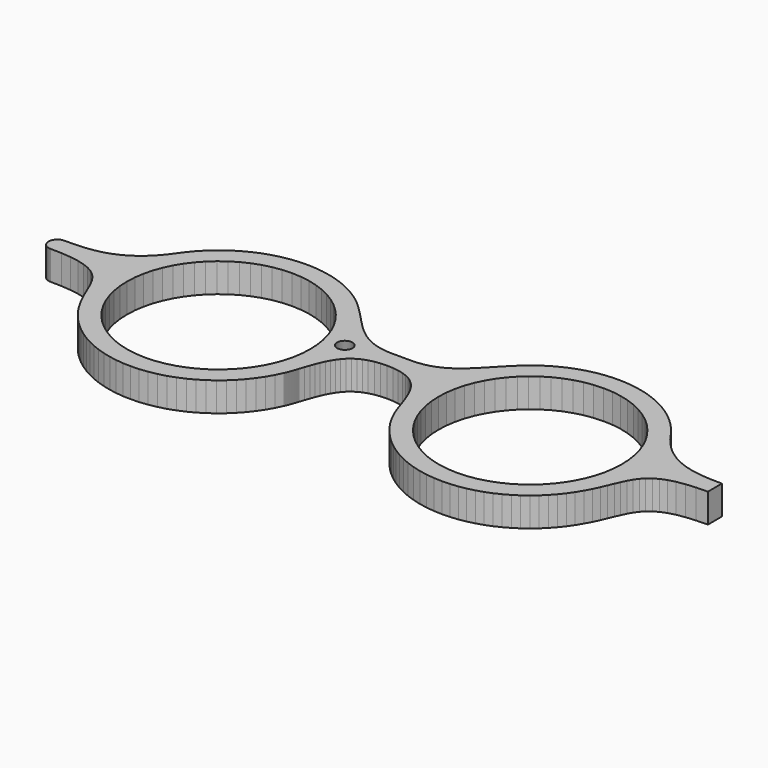
from build123d import *

# Parameters (mm, degrees)
F1_DEPTH = 6


with BuildPart() as f1:
    # F0 (on Top) → F1 (new body)
    with BuildSketch(Plane.XY):
        Polygon((68.823189, 4.836225), (67.674594, 4.84501), (66.532889, 4.877566), (65.399108, 4.943023), (64.274285, 5.05051), (63.158763, 5.209328), (62.053921, 5.428781), (60.960447, 5.717652), (59.878343, 6.085416), (58.808985, 6.541202), (57.753408, 7.094312), (56.7123, 7.753704), (55.686006, 8.528678), (54.67556, 9.428365), (53.681994, 10.461893), (52.705999, 11.638738), (51.747918, 12.967683), (50.945555, 14.049099), (50.082214, 15.080388), (49.160651, 16.058623), (48.183622, 16.981392), (47.153538, 17.845766), (46.073156, 18.649163), (44.944888, 19.388825), (43.771832, 20.062169), (42.556403, 20.666266), (41.301699, 21.198533), (40.010133, 21.656387), (38.684115, 22.03707), (37.326748, 22.337999), (35.940097, 22.556073), (34.527608, 22.688882), (33.091347, 22.73384), (31.913125, 22.703696), (30.750405, 22.614123), (29.604566, 22.466673), (28.477331, 22.262896), (27.369733, 22.004169), (26.283494, 21.692043), (25.219993, 21.327897), (24.180953, 20.913279), (23.16775, 20.449742), (22.181419, 19.938662), (21.224372, 19.38159), (20.296952, 18.780076), (19.401227, 18.135327), (18.538575, 17.449236), (17.710719, 16.722838), (16.918691, 15.958026), (16.068786, 15.11105), (15.256777, 14.274236), (14.473707, 13.453959), (13.710274, 12.656075), (12.95752, 11.886957), (12.20649, 11.152635), (11.448224, 10.458965), (10.673422, 9.812493), (9.873126, 9.219075), (9.038724, 8.684913), (8.160914, 8.216208), (7.230394, 7.818988), (6.238551, 7.499283), (5.176428, 7.263294), (4.034379, 7.117222), (2.804135, 7.067268), (2.566768, 7.067268), (2.329401, 7.067268), (2.092378, 7.067268), (1.855011, 7.067268), (1.617644, 7.067268), (1.380622, 7.067268), (1.143254, 7.067268), (0.905887, 7.067268), (0.66852, 7.067268), (0.431153, 7.067268), (0.194131, 7.067268), (-0.043236, 7.067268), (-0.280603, 7.067268), (-0.517798, 7.067268), (-0.754993, 7.067268), (-0.99236, 7.067268), (-2.222604, 7.117222), (-3.364481, 7.263294), (-4.426776, 7.499283), (-5.418447, 7.818988), (-6.348622, 8.216208), (-7.226605, 8.684913), (-8.061179, 9.219075), (-8.861303, 9.812493), (-9.636105, 10.458965), (-10.39437, 11.152635), (-11.145401, 11.886957), (-11.898154, 12.656075), (-12.661588, 13.453959), (-13.445002, 14.274236), (-14.257011, 15.11105), (-15.106916, 15.958026), (-15.898772, 16.722838), (-16.7268, 17.449236), (-17.58928, 18.135327), (-18.484833, 18.780076), (-19.41208, 19.38159), (-20.369644, 19.938662), (-21.355631, 20.449742), (-22.369005, 20.913279), (-23.408046, 21.327897), (-24.471375, 21.692043), (-25.557614, 22.004169), (-26.665039, 22.262896), (-27.792447, 22.466673), (-28.938286, 22.614123), (-30.101005, 22.703696), (-31.279228, 22.73384), (-32.715316, 22.688882), (-34.127978, 22.556073), (-35.514456, 22.337999), (-36.871996, 22.03707), (-38.198013, 21.656387), (-39.489924, 21.198533), (-40.7448, 20.666266), (-41.960058, 20.062169), (-43.133113, 19.388825), (-44.261209, 18.649163), (-45.341763, 17.845766), (-46.371847, 16.981392), (-47.349048, 16.058623), (-48.270611, 15.080388), (-49.13378, 14.049099), (-49.936143, 12.967683), (-50.814642, 11.741918), (-51.709333, 10.643622), (-52.6197, 9.666248), (-53.544536, 8.802908), (-54.483324, 8.046709), (-55.435204, 7.390763), (-56.399314, 6.828351), (-57.374965, 6.352583), (-58.361468, 5.95657), (-59.35779, 5.633764), (-60.363241, 5.37676), (-61.377133, 5.179356), (-62.398603, 5.034318), (-63.426792, 4.934927), (-64.46101, 4.874121), (-65.500395, 4.845526), (-65.594791, 4.844837), (-65.689186, 4.844321), (-65.783582, 4.843804), (-65.877978, 4.843115), (-65.972373, 4.842598), (-66.066769, 4.842081), (-66.161164, 4.841392), (-66.255732, 4.840875), (-66.3503, 4.840359), (-66.444696, 4.83967), (-66.539091, 4.839153), (-66.633487, 4.838636), (-66.727883, 4.837947), (-66.822278, 4.83743), (-66.916674, 4.836914), (-67.011069, 4.836225), (-67.011069, 4.836052), (-67.011069, 4.83588), (-67.011069, 4.835708), (-67.011069, 4.835536), (-67.011069, 4.835363), (-67.011069, 4.835191), (-67.196243, 4.825889), (-67.37625, 4.798329), (-67.549882, 4.753715), (-67.716453, 4.692736), (-67.874755, 4.616428), (-68.024272, 4.525649), (-68.163798, 4.421263), (-68.292473, 4.304474), (-68.409261, 4.1758), (-68.513648, 4.036273), (-68.604426, 3.886756), (-68.680735, 3.728454), (-68.741713, 3.561884), (-68.786327, 3.388251), (-68.813888, 3.208245), (-68.82319, 3.023071), (-68.813888, 2.837897), (-68.786327, 2.657891), (-68.741713, 2.484258), (-68.680735, 2.317688), (-68.604426, 2.159385), (-68.513648, 2.009868), (-68.409261, 1.870342), (-68.292473, 1.741668), (-68.163798, 1.624879), (-68.024272, 1.520492), (-67.874755, 1.429714), (-67.716453, 1.353405), (-67.549882, 1.292427), (-67.37625, 1.247813), (-67.196243, 1.220252), (-67.011069, 1.210951), (-67.011069, 1.210778), (-67.011069, 1.210606), (-67.011069, 1.210434), (-67.011069, 1.210262), (-67.011069, 1.210089), (-67.011069, 1.209917), (-64.649801, 1.151695), (-62.617195, 0.979612), (-60.882072, 0.698148), (-59.413084, 0.311436), (-58.17905, -0.176045), (-57.148622, -0.760678), (-56.290794, -1.437294), (-55.574041, -2.202105), (-54.96736, -3.050977), (-54.439227, -3.97943), (-53.958636, -4.983331), (-53.494237, -6.058545), (-53.014852, -7.200595), (-52.489303, -8.405), (-51.886239, -9.668316), (-51.17431, -10.985376), (-50.405365, -12.270742), (-49.556321, -13.499607), (-48.630452, -14.668528), (-47.631718, -15.773715), (-46.563567, -16.811722), (-45.429613, -17.778416), (-44.233648, -18.670351), (-42.979289, -19.484082), (-41.670153, -20.215821), (-40.309857, -20.861776), (-38.902019, -21.418504), (-37.4506, -21.882213), (-35.958874, -22.249461), (-34.430629, -22.516111), (-32.869656, -22.67872), (-31.279228, -22.733841), (-29.551168, -22.668729), (-27.857904, -22.476837), (-26.204602, -22.162644), (-24.595398, -21.730974), (-23.035287, -21.186304), (-21.528919, -20.533803), (-20.080945, -19.777605), (-18.696017, -18.922876), (-17.378785, -17.974097), (-16.134244, -16.93609), (-14.966701, -15.813678), (-13.881151, -14.611339), (-12.882074, -13.333898), (-11.974291, -11.985832), (-11.162454, -10.572309), (-10.451214, -9.097809), (-10.382485, -8.938301), (-10.314444, -8.777759), (-10.247265, -8.615151), (-10.181119, -8.451509), (-10.115834, -8.286833), (-10.051583, -8.121124), (-9.988538, -7.954381), (-9.926526, -7.78695), (-9.86572, -7.619174), (-9.80612, -7.450708), (-9.74807, -7.281899), (-9.691226, -7.113089), (-9.636105, -6.944279), (-9.582361, -6.77547), (-9.530168, -6.607005), (-9.479697, -6.438884), (-9.147073, -5.467367), (-8.816861, -4.519277), (-8.479414, -3.60047), (-8.12543, -2.715769), (-7.745092, -1.871376), (-7.328752, -1.07177), (-6.867109, -0.32315), (-6.350689, 0.369486), (-5.769674, 1.0008), (-5.114589, 1.565451), (-4.375961, 2.0581), (-3.544142, 2.473061), (-2.609488, 2.805169), (-1.562868, 3.049254), (-0.394119, 3.19946), (0.905887, 3.250792), (2.206066, 3.19946), (3.374643, 3.049254), (4.421263, 2.805169), (5.355917, 2.473061), (6.187908, 2.0581), (6.926536, 1.565451), (7.581793, 1.0008), (8.162637, 0.369486), (8.679056, -0.32315), (9.140699, -1.07177), (9.557211, -1.871376), (9.93755, -2.715769), (10.291361, -3.60047), (10.628636, -4.519277), (10.959021, -5.467367), (11.291472, -6.438884), (11.342115, -6.607005), (11.394136, -6.77547), (11.44788, -6.944279), (11.503001, -7.113089), (11.559845, -7.281899), (11.618067, -7.450708), (11.677667, -7.619174), (11.738301, -7.78695), (11.800313, -7.954381), (11.863703, -8.121124), (11.928126, -8.286833), (11.993238, -8.451509), (12.059384, -8.615151), (12.126563, -8.777759), (12.194776, -8.938301), (12.263334, -9.097809), (12.974401, -10.572309), (13.78641, -11.985832), (14.694193, -13.333898), (15.692926, -14.611339), (16.77882, -15.813678), (17.946019, -16.93609), (19.190732, -17.974097), (20.507792, -18.922876), (21.89272, -19.777605), (23.340694, -20.533803), (24.847234, -21.186304), (26.407173, -21.730974), (28.016377, -22.162644), (29.670023, -22.476837), (31.363288, -22.668729), (33.091347, -22.733841), (34.681604, -22.67872), (36.242576, -22.516456), (37.770821, -22.25015), (39.262203, -21.883591), (40.713621, -21.420571), (42.121287, -20.864532), (43.481411, -20.219266), (44.790547, -19.488217), (46.044906, -18.675174), (47.240699, -17.783928), (48.37448, -16.817923), (49.44246, -15.780605), (50.441193, -14.676107), (51.367235, -13.507531), (52.216451, -12.27901), (52.985051, -10.993645), (53.697153, -9.676585), (54.300389, -8.413268), (54.82611, -7.208174), (55.305668, -6.06578), (55.770067, -4.989877), (56.250657, -3.985287), (56.778791, -3.056145), (57.385472, -2.20624), (58.102396, -1.440395), (58.960569, -0.763089), (59.990998, -0.178112), (61.225031, 0.31023), (62.694019, 0.697459), (64.429314, 0.979268), (66.46192, 1.151523), (68.823189, 1.209917), (68.823189, 1.613682), (68.823189, 1.948546), (68.823189, 2.224325), (68.823189, 2.450496), (68.823189, 2.636876), (68.823189, 2.793455), (68.823189, 2.929364), (68.823189, 3.054766), (68.823189, 3.179134), (68.823189, 3.312114), (68.823189, 3.463526), (68.823189, 3.643188), (68.823189, 3.860574), (68.823189, 4.125329), (68.823189, 4.447273), align=None)
        Polygon((-12.361864, 0), (-12.459705, -1.931321), (-12.746854, -3.80752), (-13.213836, -5.618951), (-13.850835, -7.356313), (-14.648374, -9.009959), (-15.596981, -10.569553), (-16.687009, -12.026484), (-17.908813, -13.370416), (-19.252917, -14.592047), (-20.709675, -15.682075), (-22.269442, -16.630854), (-23.922743, -17.428394), (-25.659933, -18.065392), (-27.471536, -18.532203), (-29.347735, -18.819524), (-31.279228, -18.917364), (-33.210721, -18.819524), (-35.08692, -18.532203), (-36.898523, -18.065392), (-38.635713, -17.428394), (-40.289014, -16.630854), (-41.848781, -15.682075), (-43.30554, -14.592047), (-44.649644, -13.370416), (-45.871447, -12.026484), (-46.961475, -10.569553), (-47.910082, -9.009959), (-48.707622, -7.356313), (-49.34462, -5.618951), (-49.811603, -3.80752), (-50.098751, -1.931321), (-50.196592, 0), (-50.098751, 1.93132), (-49.811603, 3.807519), (-49.34462, 5.619123), (-48.707622, 7.356312), (-47.910082, 9.009613), (-46.961475, 10.56938), (-45.871447, 12.025967), (-44.649644, 13.370071), (-43.30554, 14.591874), (-41.848781, 15.681902), (-40.289014, 16.630509), (-38.635713, 17.428049), (-36.898523, 18.065047), (-35.08692, 18.532029), (-33.210721, 18.819178), (-31.279228, 18.917019), (-29.347735, 18.819178), (-27.471536, 18.532029), (-25.659933, 18.065047), (-23.922743, 17.428049), (-22.269442, 16.630509), (-20.709675, 15.681902), (-19.252917, 14.591874), (-17.908813, 13.370071), (-16.687009, 12.025967), (-15.596981, 10.56938), (-14.648374, 9.009613), (-13.850835, 7.356312), (-13.213836, 5.619123), (-12.746854, 3.807519), (-12.459705, 1.93132), align=None, mode=Mode.SUBTRACT)
        Polygon((52.008367, 0), (51.910526, -1.931321), (51.623205, -3.80752), (51.156395, -5.618951), (50.519397, -7.356313), (49.721857, -9.009959), (48.773078, -10.569553), (47.683049, -12.026484), (46.461419, -13.370416), (45.117487, -14.592047), (43.6609, -15.682075), (42.100961, -16.630854), (40.44766, -17.428394), (38.710643, -18.065392), (36.899212, -18.532203), (35.023013, -18.819524), (33.091347, -18.917364), (31.159682, -18.819524), (29.283483, -18.532203), (27.472052, -18.065392), (25.734691, -17.428394), (24.081389, -16.630854), (22.521795, -15.682075), (21.065208, -14.592047), (19.720932, -13.370416), (18.498957, -12.026484), (17.408928, -10.569553), (16.460149, -9.009959), (15.662609, -7.356313), (15.025611, -5.618951), (14.558801, -3.80752), (14.27148, -1.931321), (14.173639, 0), (14.27148, 1.93132), (14.558801, 3.807519), (15.025611, 5.619123), (15.662609, 7.356312), (16.460149, 9.009613), (17.408928, 10.56938), (18.498957, 12.025967), (19.720932, 13.370071), (21.065208, 14.591874), (22.521795, 15.681902), (24.081389, 16.630509), (25.734691, 17.428049), (27.472052, 18.065047), (29.283483, 18.532029), (31.159682, 18.819178), (33.091347, 18.917019), (35.023013, 18.819178), (36.899212, 18.532029), (38.710643, 18.065047), (40.44766, 17.428049), (42.100961, 16.630509), (43.6609, 15.681902), (45.117487, 14.591874), (46.461419, 13.370071), (47.683049, 12.025967), (48.773078, 10.56938), (49.721857, 9.009613), (50.519397, 7.356312), (51.156395, 5.619123), (51.623205, 3.807519), (51.910526, 1.93132), align=None, mode=Mode.SUBTRACT)
        Polygon((-7.242797, 4.541669), (-7.251065, 4.378027), (-7.275353, 4.219208), (-7.314799, 4.065901), (-7.368543, 3.918796), (-7.435895, 3.778925), (-7.515993, 3.646978), (-7.608149, 3.523815), (-7.71133, 3.4103), (-7.824846, 3.307119), (-7.948008, 3.214963), (-8.079955, 3.134864), (-8.219826, 3.067513), (-8.366932, 3.013769), (-8.520238, 2.974323), (-8.679057, 2.950035), (-8.842699, 2.941767), (-9.006341, 2.950035), (-9.16516, 2.974323), (-9.318467, 3.013769), (-9.465573, 3.067513), (-9.605443, 3.134864), (-9.737391, 3.214963), (-9.860553, 3.307119), (-9.974069, 3.4103), (-10.077249, 3.523815), (-10.169406, 3.646978), (-10.249504, 3.778925), (-10.316856, 3.918796), (-10.370599, 4.065901), (-10.410045, 4.219208), (-10.434333, 4.378027), (-10.442602, 4.541669), (-10.434333, 4.705311), (-10.410045, 4.86413), (-10.370599, 5.017437), (-10.316856, 5.164542), (-10.249504, 5.304413), (-10.169406, 5.43636), (-10.077249, 5.559522), (-9.974069, 5.673038), (-9.860553, 5.776219), (-9.737391, 5.868375), (-9.605443, 5.948474), (-9.465573, 6.015825), (-9.318467, 6.069569), (-9.16516, 6.109015), (-9.006341, 6.133303), (-8.842699, 6.141571), (-8.679057, 6.133303), (-8.520238, 6.109015), (-8.366932, 6.069569), (-8.219826, 6.015825), (-8.079955, 5.948474), (-7.948008, 5.868375), (-7.824846, 5.776219), (-7.71133, 5.673038), (-7.608149, 5.559522), (-7.515993, 5.43636), (-7.435895, 5.304413), (-7.368543, 5.164542), (-7.314799, 5.017437), (-7.275353, 4.86413), (-7.251065, 4.705311), align=None, mode=Mode.SUBTRACT)
    extrude(amount=F1_DEPTH)


solid = f1.part
